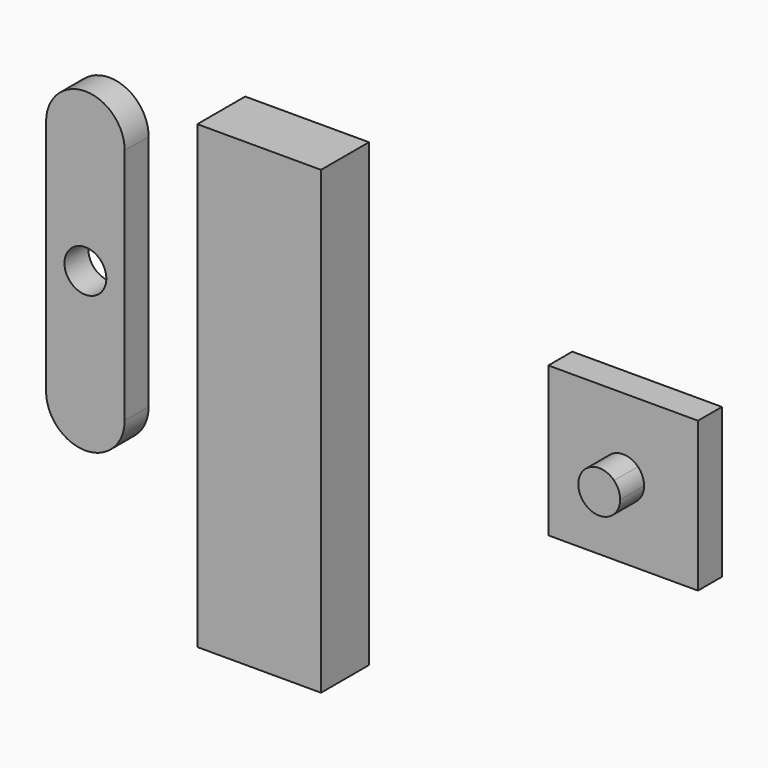
from build123d import *

# Parameters (mm, degrees)
F0_R     = 3.5
F1_DEPTH = 5
F2_W     = 20.669978112
F2_H     = 76.9194290042
F3_DEPTH = 10
F5_DEPTH = 5
F6_DEPTH = 10


with BuildPart() as f1:
    # F0 (on Front) → F1 (new body)
    with BuildSketch(Plane.XZ):
        with BuildLine():
            ThreePointArc((-47.562482343, 49.2489182709), (-54.1316252202, 55.8180611481), (-60.7007680973, 49.2489182709))
            Line((-60.7007680973, 49.2489182709), (-60.7007680973, 29.3954196386))
            Line((-60.7007680973, 29.3954196386), (-60.7007680973, 9.5419210063))
            ThreePointArc((-60.7007680973, 9.5419210063), (-54.1316252202, 2.9727781291), (-47.562482343, 9.5419210063))
            Line((-47.562482343, 9.5419210063), (-47.562482343, 49.2489182709))
        make_face()
        with Locations((-54.1316252202, 29.3954196386)):
            Circle(F0_R, mode=Mode.SUBTRACT)
    extrude(amount=F1_DEPTH)


with BuildPart() as f3:
    # F2 (on Front) → F3 (new body)
    with BuildSketch(Plane.XZ):
        with Locations((-21.0935417563, 21.9406746328)):
            Rectangle(F2_W, F2_H)
    extrude(amount=F3_DEPTH)


with BuildPart() as f5:
    # F4 (on Front) → F5 (new body)
    with BuildSketch(Plane.XZ):
        with BuildLine():
            Line((48.2231631423, 40.6504594242), (23.2231631423, 40.6504594242))
            Line((23.2231631423, 40.6504594242), (33.2482894081, 30.6253331583))
            ThreePointArc((33.2482894081, 30.6253331583), (35.7231631423, 31.6504594242), (38.1980368764, 30.6253331583))
            Line((38.1980368764, 30.6253331583), (48.2231631423, 40.6504594242))
        make_face()
        with BuildLine():
            Line((33.2482894081, 30.6253331583), (23.2231631423, 40.6504594242))
            Line((23.2231631423, 40.6504594242), (23.2231631423, 15.6504594242))
            Line((23.2231631423, 15.6504594242), (33.2482894081, 25.67558569))
            ThreePointArc((33.2482894081, 25.67558569), (32.2231631423, 28.1504594242), (33.2482894081, 30.6253331583))
        make_face()
        with BuildLine():
            Line((33.2482894081, 25.67558569), (23.2231631423, 15.6504594242))
            Line((23.2231631423, 15.6504594242), (48.2231631423, 15.6504594242))
            Line((48.2231631423, 15.6504594242), (38.1980368764, 25.67558569))
            ThreePointArc((38.1980368764, 25.67558569), (35.7231631423, 24.6504594242), (33.2482894081, 25.67558569))
        make_face()
        with BuildLine():
            Line((48.2231631423, 15.6504594242), (48.2231631423, 40.6504594242))
            Line((48.2231631423, 40.6504594242), (38.1980368764, 30.6253331583))
            ThreePointArc((38.1980368764, 30.6253331583), (38.9567415061, 29.4898514375), (39.2231631423, 28.1504594242))
            ThreePointArc((39.2231631423, 28.1504594242), (38.9567415061, 26.8110674109), (38.1980368764, 25.67558569))
            Line((38.1980368764, 25.67558569), (48.2231631423, 15.6504594242))
        make_face()
        with BuildLine():
            Line((35.7231631423, 28.1504594242), (33.2482894081, 30.6253331583))
            ThreePointArc((33.2482894081, 30.6253331583), (32.2231631423, 28.1504594242), (33.2482894081, 25.67558569))
            Line((33.2482894081, 25.67558569), (35.7231631423, 28.1504594242))
        make_face()
        with BuildLine():
            ThreePointArc((38.1980368764, 30.6253331583), (35.7231631423, 31.6504594242), (33.2482894081, 30.6253331583))
            Line((33.2482894081, 30.6253331583), (35.7231631423, 28.1504594242))
            Line((35.7231631423, 28.1504594242), (38.1980368764, 30.6253331583))
        make_face()
        with BuildLine():
            ThreePointArc((39.2231631423, 28.1504594242), (38.9567415061, 29.4898514375), (38.1980368764, 30.6253331583))
            Line((38.1980368764, 30.6253331583), (35.7231631423, 28.1504594242))
            Line((35.7231631423, 28.1504594242), (38.1980368764, 25.67558569))
            ThreePointArc((38.1980368764, 25.67558569), (38.9567415061, 26.8110674109), (39.2231631423, 28.1504594242))
        make_face()
        with BuildLine():
            Line((35.7231631423, 28.1504594242), (33.2482894081, 25.67558569))
            ThreePointArc((33.2482894081, 25.67558569), (35.7231631423, 24.6504594242), (38.1980368764, 25.67558569))
            Line((38.1980368764, 25.67558569), (35.7231631423, 28.1504594242))
        make_face()
    extrude(amount=F5_DEPTH)

    # F4 (on Front) → F6 (join)
    with BuildSketch(Plane.XZ):
        with BuildLine():
            ThreePointArc((38.1980368764, 30.6253331583), (35.7231631423, 31.6504594242), (33.2482894081, 30.6253331583))
            Line((33.2482894081, 30.6253331583), (35.7231631423, 28.1504594242))
            Line((35.7231631423, 28.1504594242), (38.1980368764, 30.6253331583))
        make_face()
        with BuildLine():
            ThreePointArc((39.2231631423, 28.1504594242), (38.9567415061, 29.4898514375), (38.1980368764, 30.6253331583))
            Line((38.1980368764, 30.6253331583), (35.7231631423, 28.1504594242))
            Line((35.7231631423, 28.1504594242), (38.1980368764, 25.67558569))
            ThreePointArc((38.1980368764, 25.67558569), (38.9567415061, 26.8110674109), (39.2231631423, 28.1504594242))
        make_face()
        with BuildLine():
            Line((35.7231631423, 28.1504594242), (33.2482894081, 25.67558569))
            ThreePointArc((33.2482894081, 25.67558569), (35.7231631423, 24.6504594242), (38.1980368764, 25.67558569))
            Line((38.1980368764, 25.67558569), (35.7231631423, 28.1504594242))
        make_face()
        with BuildLine():
            Line((35.7231631423, 28.1504594242), (33.2482894081, 30.6253331583))
            ThreePointArc((33.2482894081, 30.6253331583), (32.2231631423, 28.1504594242), (33.2482894081, 25.67558569))
            Line((33.2482894081, 25.67558569), (35.7231631423, 28.1504594242))
        make_face()
    extrude(amount=F6_DEPTH)


solid = Compound([f1.part, f3.part, f5.part])
